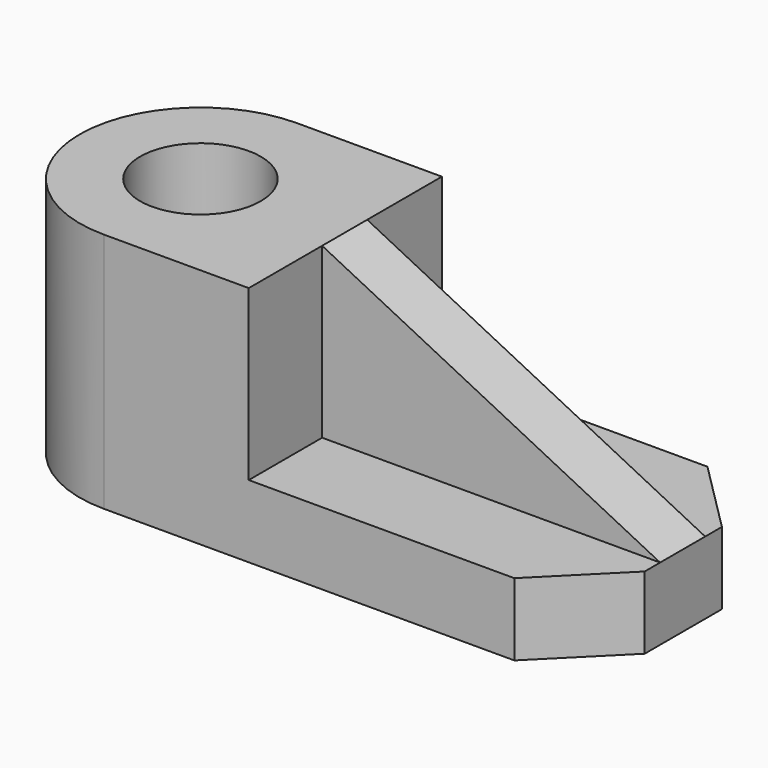
from build123d import *

# Parameters (mm, degrees)
F0_W     = 42
F0_H     = 7
F1_DEPTH = 9
F0_R     = 7.5
F2_DEPTH = 30
F4_DEPTH = 18.4
F5_DEPTH = 29.8


with BuildPart() as f1:
    # F0 (on Top) → F1 (new body)
    with BuildSketch(Plane.XY):
        Polygon((37.710456817, 13.8251332584), (4.710456817, 13.8251332584), (4.710456817, 2.3251332584), (46.710456817, 2.3251332584), (46.710456817, 4.8251332584), align=None)
        Polygon((4.710456817, -4.6748667416), (4.710456817, -16.1748667416), (37.710456817, -16.1748667416), (46.710456817, -7.1748667416), (46.710456817, -4.6748667416), align=None)
        with Locations((25.710456817, -1.1748667416)):
            Rectangle(F0_W, F0_H)
    extrude(amount=F1_DEPTH)

    # F0 (on Top) → F2 (join)
    with BuildSketch(Plane.XY):
        with BuildLine():
            Line((4.710456817, 13.8251332584), (-13.289543183, 13.8251332584))
            ThreePointArc((-13.289543183, 13.8251332584), (-28.289543183, -1.1748667416), (-13.289543183, -16.1748667416))
            Line((-13.289543183, -16.1748667416), (4.710456817, -16.1748667416))
            Line((4.710456817, -16.1748667416), (4.710456817, -4.6748667416))
            Line((4.710456817, -4.6748667416), (4.710456817, 2.3251332584))
            Line((4.710456817, 2.3251332584), (4.710456817, 13.8251332584))
        make_face()
        with Locations((-13.289543183, -1.1748667416)):
            Circle(F0_R, mode=Mode.SUBTRACT)
    extrude(amount=F2_DEPTH)

    # F3 (on face) → F4 (join, symmetric)
    with BuildSketch(Plane.XZ.offset(16.1748667416)):
        Polygon((46.710456817, 9), (4.710456817, 30), (4.710456817, 9), (37.710456817, 9), align=None)
    extrude(amount=F4_DEPTH, both=True)

    # F5 (cut): a face of the model
    f5_faces = [f1.faces().sort_by_distance(p)[0] for p in [
        (18.710456817, -34.5748667416, 16),
    ]]
    extrude(f5_faces, amount=-F5_DEPTH, mode=Mode.SUBTRACT)


solid = f1.part
